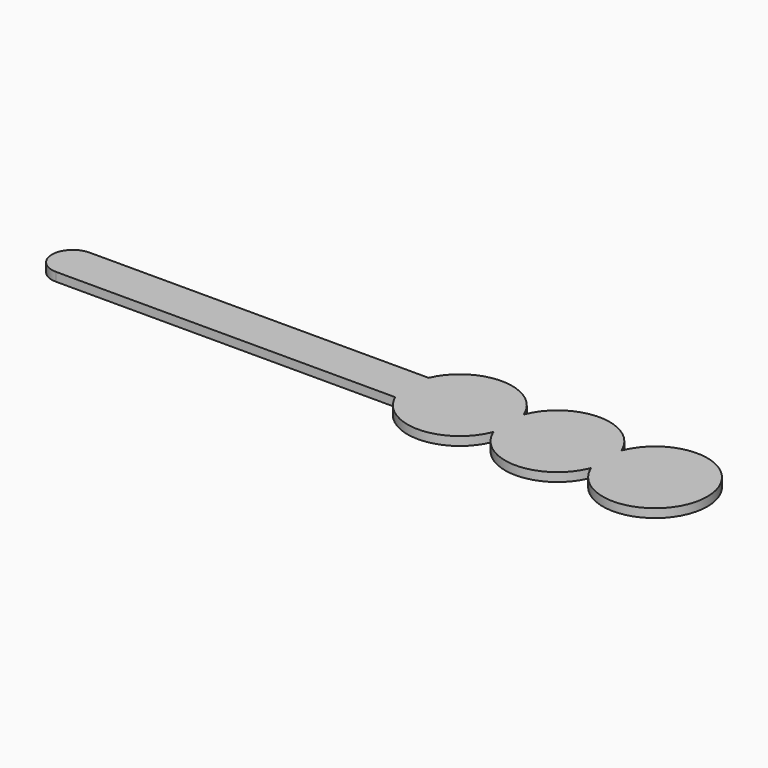
from build123d import *

# Parameters (mm, degrees)
F1_DEPTH = 3.175


with BuildPart() as f1:
    # F0 (on Top) → F1 (new body)
    with BuildSketch(Plane.XY):
        with BuildLine():
            ThreePointArc((201.609613, 0), (201.774132, 0.388646), (201.93, 0.780841))
            ThreePointArc((201.93, 0.780841), (202.085868, 0.388646), (202.250387, 0))
            ThreePointArc((202.250387, 0), (238.76, 7.62), (202.250387, 15.24))
            ThreePointArc((202.250387, 15.24), (202.085868, 14.851354), (201.93, 14.459159))
            ThreePointArc((201.93, 14.459159), (201.774132, 14.851354), (201.609613, 15.24))
            ThreePointArc((201.609613, 15.24), (184.15, 26.67), (166.690387, 15.24))
            ThreePointArc((166.690387, 15.24), (166.525868, 14.851354), (166.37, 14.459159))
            ThreePointArc((166.37, 14.459159), (166.214132, 14.851354), (166.049613, 15.24))
            ThreePointArc((166.049613, 15.24), (148.59, 26.67), (131.130387, 15.24))
            Line((131.130387, 15.24), (7.62, 15.24))
            ThreePointArc((7.62, 15.24), (2.231846, 13.008154), (0, 7.62))
            ThreePointArc((0, 7.62), (2.231846, 2.231846), (7.62, 0))
            Line((7.62, 0), (131.130387, 0))
            ThreePointArc((131.130387, 0), (148.59, -11.43), (166.049613, 0))
            ThreePointArc((166.049613, 0), (166.214132, 0.388646), (166.37, 0.780841))
            ThreePointArc((166.37, 0.780841), (166.525868, 0.388646), (166.690387, 0))
            ThreePointArc((166.690387, 0), (184.15, -11.43), (201.609613, 0))
        make_face()
    extrude(amount=F1_DEPTH)


solid = f1.part
